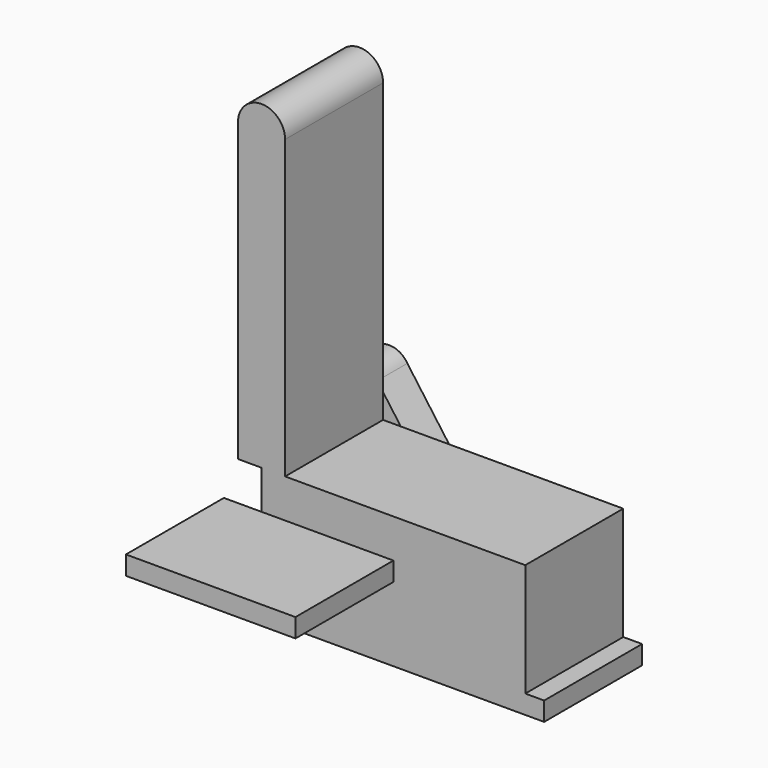
from build123d import *

# Parameters (mm, degrees)
F1_DEPTH = 165.1
F2_W     = 177.8
F2_H     = 25.4
F2_W_2   = 50.8
F3_DEPTH = 165.1
F5_DEPTH = 50.8


with BuildPart() as f1:
    # F0 (on Front) → F1 (new body)
    with BuildSketch(Plane.XZ):
        with BuildLine():
            Line((0, 25.4), (0, 0))
            Line((0, 0), (457.2, 0))
            Line((457.2, 0), (457.2, 25.4))
            Line((457.2, 25.4), (431.8, 25.4))
            Line((431.8, 25.4), (431.8, 177.8))
            Line((431.8, 177.8), (107.95, 177.8))
            Line((107.95, 177.8), (107.95, 577.85))
            ThreePointArc((107.95, 577.85), (76.2, 609.6), (44.45, 577.85))
            Line((44.45, 577.85), (44.45, 177.8))
            Line((44.45, 177.8), (76.2, 177.8))
            Line((76.2, 177.8), (76.2, 25.4))
            Line((76.2, 25.4), (0, 25.4))
        make_face()
    extrude(amount=F1_DEPTH)

    # F2 (on face) → F3 (join)
    with BuildSketch(Plane.XZ.offset(165.1)):
        with Locations((165.1, 112.78545)):
            Rectangle(F2_W, F2_H)
        with Locations((50.8, 112.78545)):
            Rectangle(F2_W_2, F2_H)
    extrude(amount=F3_DEPTH)

    # F4 (on face) → F5 (join)
    with BuildSketch(Plane(origin=(0, 0, 0), x_dir=(-1, 0, 0), z_dir=(0, 1, 0))):
        with BuildLine():
            Line((-50.013161, 193.333121), (-55.298633, 186.161049))
            ThreePointArc((-55.298633, 186.161049), (-52.376747, 189.541366), (-50.013161, 193.333121))
        make_face()
        with BuildLine():
            Line((-117.033699, 102.390224), (-55.298633, 186.161049))
            Line((-55.298633, 186.161049), (-50.013161, 193.333121))
            ThreePointArc((-50.013161, 193.333121), (-61.358561, 231.663771), (-100.070771, 221.697747))
            Line((-100.070771, 221.697747), (-162.443357, 135.562881))
            ThreePointArc((-162.443357, 135.562881), (-156.255653, 96.366456), (-117.033699, 102.390224))
        make_face()
    extrude(amount=F5_DEPTH)


solid = f1.part
